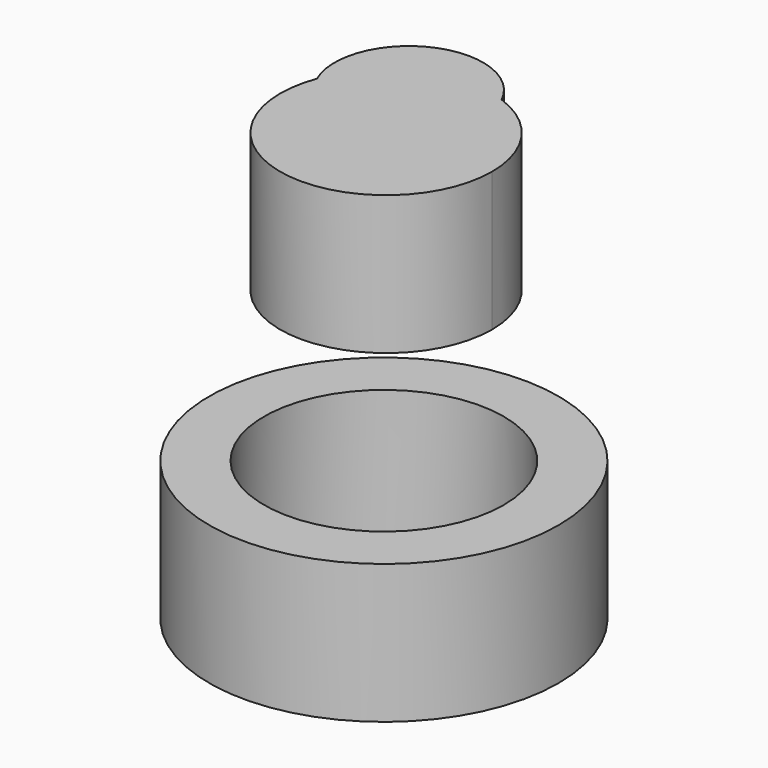
from build123d import *

# Parameters (mm, degrees)
F0_R     = 31.9073000718
F0_R_2   = 21.8935994758
F1_DEPTH = 25.4
F3_DEPTH = 25.4


with BuildPart() as f1:
    # F0 (on Top) → F1 (new body)
    with BuildSketch(Plane.XY):
        Circle(F0_R)
        Circle(F0_R_2, mode=Mode.SUBTRACT)
    extrude(amount=F1_DEPTH)


with BuildPart() as f3:
    # F2 (on face) → F3 (new body)
    with BuildSketch(Plane.XY.offset(25.4)):
        with BuildLine():
            ThreePointArc((-50.7247524619, 48.1223372497), (-36.0996094562, 22.237017044), (-13.2649608676, 41.2770652036))
            ThreePointArc((-13.2649608676, 41.2770652036), (-16.7947190572, 52.4206786872), (-26.0965767999, 59.4998563853))
            ThreePointArc((-26.0965767999, 59.4998563853), (-25.085878469, 56.6229994128), (-24.7432089125, 53.5930827915))
            ThreePointArc((-24.7432089125, 53.5930827915), (-35.5145945202, 40.3174503961), (-50.7247524619, 48.1223372497))
        make_face()
        with BuildLine():
            ThreePointArc((-24.7432089125, 53.5930827915), (-25.085878469, 56.6229994128), (-26.0965767999, 59.4998563853))
            ThreePointArc((-26.0965767999, 59.4998563853), (-40.7375837372, 58.8480272606), (-50.7247524619, 48.1223372497))
            ThreePointArc((-50.7247524619, 48.1223372497), (-35.5145945202, 40.3174503961), (-24.7432089125, 53.5930827915))
        make_face()
        with BuildLine():
            ThreePointArc((-50.7247524619, 48.1223372497), (-40.7375837372, 58.8480272606), (-26.0965767999, 59.4998563853))
            ThreePointArc((-26.0965767999, 59.4998563853), (-43.9995993907, 65.9091003793), (-50.7247524619, 48.1223372497))
        make_face()
    extrude(amount=F3_DEPTH)


solid = Compound([f1.part, f3.part])
